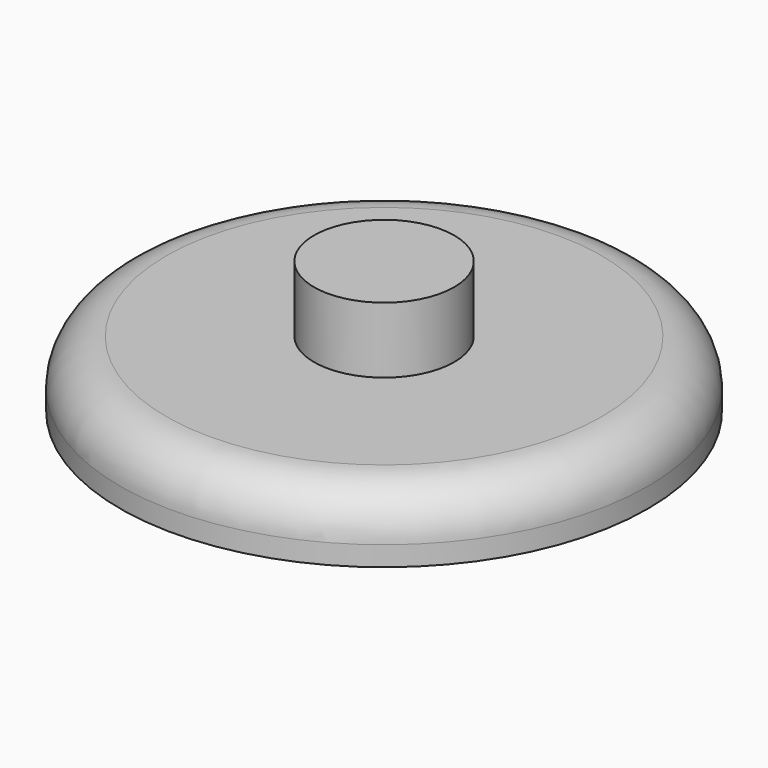
from build123d import *

# Parameters (mm, degrees)
F0_R     = 40
F1_DEPTH = 10
F2_R     = 7
F3_R     = 10.625
F4_DEPTH = 10


with BuildPart() as f1:
    # F0 (on Top) → F1 (new body)
    with BuildSketch(Plane.XY):
        Circle(F0_R)
    extrude(amount=F1_DEPTH)

    # F2
    f2_edges = [f1.edges().sort_by_distance(p)[0] for p in [
        (-40, 0, 10),
    ]]
    fillet(f2_edges, radius=F2_R)

    # F3 (on face) → F4 (join)
    with BuildSketch(Plane.XY.offset(10)):
        Circle(F3_R)
    extrude(amount=F4_DEPTH)


solid = f1.part
